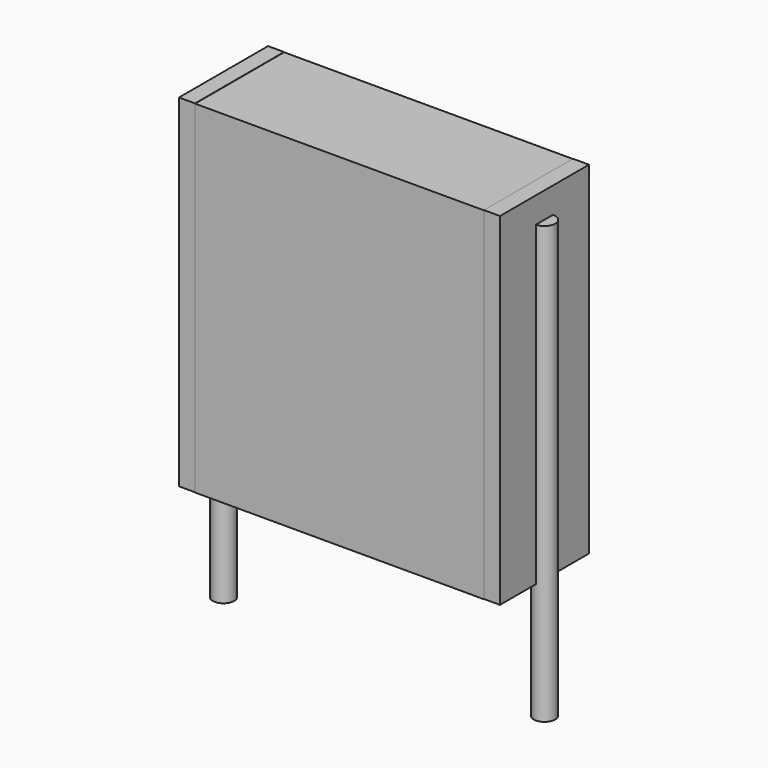
from build123d import *

# Parameters (mm, degrees)
SKETCH_W          = 6.75
SKETCH_H          = 2.6
PAD_DEPTH         = 8
SKETCH001_R       = 0.25
PAD001_DEPTH      = 7
PAD001_DEPTH_BACK = 3.2
SKETCH002_W       = 0.375
SKETCH002_H       = 2.6
PAD002_DEPTH      = 8


with BuildPart() as pad:
    # Sketch → Pad (new body)
    with BuildSketch(Plane.XY.offset(0.1)):
        with Locations((3.75, 0)):
            Rectangle(SKETCH_W, SKETCH_H)
    extrude(amount=PAD_DEPTH)


with BuildPart() as pad001:
    # Sketch001 → Pad001 (new body, two sides)
    with BuildSketch(Plane.XY.offset(0.5)) as pad001_sk:
        Circle(SKETCH001_R)
        with Locations((7.5, 0)):
            Circle(SKETCH001_R)
    extrude(amount=PAD001_DEPTH)
    extrude(pad001_sk.sketch, amount=-PAD001_DEPTH_BACK)


with BuildPart() as pad002:
    # Sketch002 → Pad002 (new body)
    with BuildSketch(Plane.XY.offset(0.105)):
        with Locations((0.1875, 0)):
            Rectangle(SKETCH002_W, SKETCH002_H)
        with Locations((7.3125, 0)):
            Rectangle(SKETCH002_W, SKETCH002_H)
    extrude(amount=PAD002_DEPTH)


solid = Compound([pad.part, pad001.part, pad002.part])
